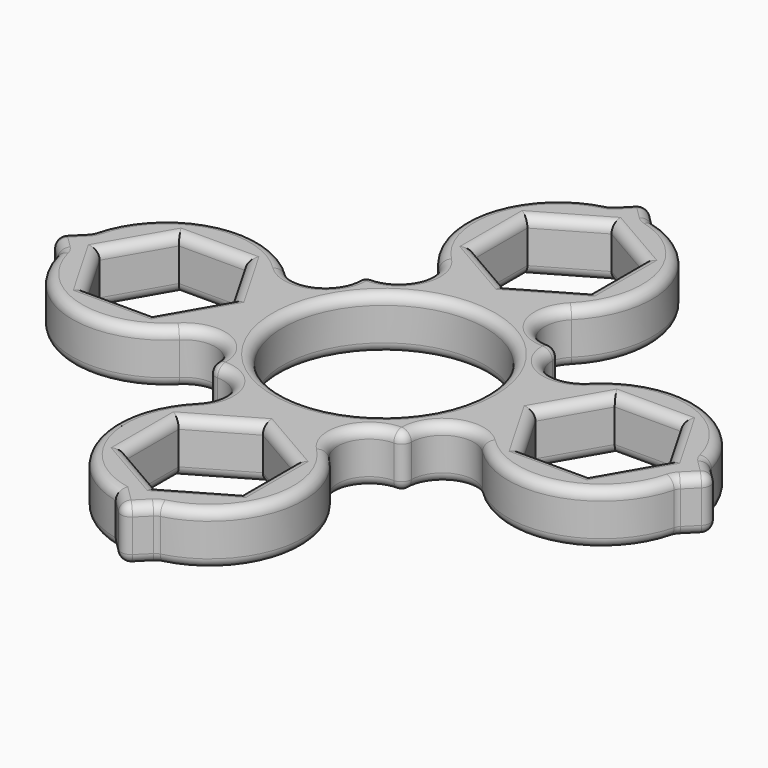
from build123d import *

# Parameters (mm, degrees)
F0_R     = 15.35
F1_DEPTH = 8
F2_R     = 1.5


with BuildPart() as f1:
    # F0 (on Top) → F1 (new body)
    with BuildSketch(Plane.XY):
        with BuildLine():
            Line((3.141748, 46.858252), (0, 50))
            Line((0, 50), (-3.141748, 46.858252))
            ThreePointArc((-3.141748, 46.858252), (-13.651676, 36.94379), (-10.047929, 22.952071))
            ThreePointArc((-10.047929, 22.952071), (-9.42651, 16.980165), (-15.142536, 15.142536))
            ThreePointArc((-15.142536, 15.142536), (-16.980165, 9.42651), (-22.952071, 10.047929))
            ThreePointArc((-22.952071, 10.047929), (-36.94379, 13.651676), (-46.858252, 3.141748))
            Line((-46.858252, 3.141748), (-50, 0))
            Line((-50, 0), (-46.858252, -3.141748))
            ThreePointArc((-46.858252, -3.141748), (-36.94379, -13.651676), (-22.952071, -10.047929))
            ThreePointArc((-22.952071, -10.047929), (-16.980165, -9.42651), (-15.142536, -15.142536))
            ThreePointArc((-15.142536, -15.142536), (-9.42651, -16.980165), (-10.047929, -22.952071))
            ThreePointArc((-10.047929, -22.952071), (-13.651676, -36.94379), (-3.141748, -46.858252))
            Line((-3.141748, -46.858252), (0, -50))
            Line((0, -50), (3.141748, -46.858252))
            ThreePointArc((3.141748, -46.858252), (13.651676, -36.94379), (10.047929, -22.952071))
            ThreePointArc((10.047929, -22.952071), (9.42651, -16.980165), (15.142536, -15.142536))
            ThreePointArc((15.142536, -15.142536), (16.980165, -9.42651), (22.952071, -10.047929))
            ThreePointArc((22.952071, -10.047929), (36.94379, -13.651676), (46.858252, -3.141748))
            Line((46.858252, -3.141748), (50, 0))
            Line((50, 0), (46.858252, 3.141748))
            ThreePointArc((46.858252, 3.141748), (36.94379, 13.651676), (22.952071, 10.047929))
            ThreePointArc((22.952071, 10.047929), (16.980165, 9.42651), (15.142536, 15.142536))
            ThreePointArc((15.142536, 15.142536), (9.42651, 16.980165), (10.047929, 22.952071))
            ThreePointArc((10.047929, 22.952071), (13.651676, 36.94379), (3.141748, 46.858252))
        make_face()
        Polygon((-8.703555, -27.975), (0, -22.95), (8.703555, -27.975), (8.703555, -38.025), (0, -43.05), (-8.703555, -38.025), align=None, mode=Mode.SUBTRACT)
        Polygon((27.975, -8.703555), (22.95, 0), (27.975, 8.703555), (38.025, 8.703555), (43.05, 0), (38.025, -8.703555), align=None, mode=Mode.SUBTRACT)
        Polygon((-27.975, 8.703555), (-22.95, 0), (-27.975, -8.703555), (-38.025, -8.703555), (-43.05, 0), (-38.025, 8.703555), align=None, mode=Mode.SUBTRACT)
        Circle(F0_R, mode=Mode.SUBTRACT)
        Polygon((8.703555, 27.975), (0, 22.95), (-8.703555, 27.975), (-8.703555, 38.025), (0, 43.05), (8.703555, 38.025), align=None, mode=Mode.SUBTRACT)
    extrude(amount=F1_DEPTH)

    # F2
    f2_edges = [f1.edges().sort_by_distance(p)[0] for p in [
        (9.42651, 16.980165, 8),
        (13.651676, 36.94379, 8),
        (1.570874, 48.429126, 8),
        (-1.570874, 48.429126, 8),
        (-13.651676, 36.94379, 8),
        (-9.42651, 16.980165, 8),
        (-16.980165, 9.42651, 8),
        (-36.94379, 13.651676, 8),
        (-48.429126, 1.570874, 8),
        (-48.429126, -1.570874, 8),
        (-36.94379, -13.651676, 8),
        (-16.980165, -9.42651, 8),
        (-9.42651, -16.980165, 8),
        (-13.651676, -36.94379, 8),
        (-1.570874, -48.429126, 8),
        (1.570874, -48.429126, 8),
        (13.651676, -36.94379, 8),
        (9.42651, -16.980165, 8),
        (16.980165, -9.42651, 8),
        (36.94379, -13.651676, 8),
        (48.429126, -1.570874, 8),
        (48.429126, 1.570874, 8),
        (36.94379, 13.651676, 8),
        (16.980165, 9.42651, 8),
        (-4.351778, -25.4625, 8),
        (4.351778, -25.4625, 8),
        (8.703555, -33, 8),
        (4.351778, -40.5375, 8),
        (-4.351778, -40.5375, 8),
        (-8.703555, -33, 8),
        (33, -8.703555, 8),
        (25.4625, -4.351778, 8),
        (25.4625, 4.351778, 8),
        (33, 8.703555, 8),
        (40.5375, 4.351778, 8),
        (40.5375, -4.351778, 8),
        (-25.4625, 4.351778, 8),
        (-25.4625, -4.351778, 8),
        (-33, -8.703555, 8),
        (-40.5375, -4.351778, 8),
        (-40.5375, 4.351778, 8),
        (-33, 8.703555, 8),
        (-15.35, 0, 8),
        (4.351778, 25.4625, 8),
        (-4.351778, 25.4625, 8),
        (-8.703555, 33, 8),
        (-4.351778, 40.5375, 8),
        (4.351778, 40.5375, 8),
        (8.703555, 33, 8),
        (9.42651, 16.980165, 0),
        (13.651676, 36.94379, 0),
        (1.570874, 48.429126, 0),
        (-1.570874, 48.429126, 0),
        (-13.651676, 36.94379, 0),
        (-9.42651, 16.980165, 0),
        (-16.980165, 9.42651, 0),
        (-36.94379, 13.651676, 0),
        (-48.429126, 1.570874, 0),
        (-48.429126, -1.570874, 0),
        (-36.94379, -13.651676, 0),
        (-16.980165, -9.42651, 0),
        (-9.42651, -16.980165, 0),
        (-13.651676, -36.94379, 0),
        (-1.570874, -48.429126, 0),
        (1.570874, -48.429126, 0),
        (13.651676, -36.94379, 0),
        (9.42651, -16.980165, 0),
        (16.980165, -9.42651, 0),
        (36.94379, -13.651676, 0),
        (48.429126, -1.570874, 0),
        (48.429126, 1.570874, 0),
        (36.94379, 13.651676, 0),
        (16.980165, 9.42651, 0),
        (-4.351778, -25.4625, 0),
        (4.351778, -25.4625, 0),
        (8.703555, -33, 0),
        (4.351778, -40.5375, 0),
        (-4.351778, -40.5375, 0),
        (-8.703555, -33, 0),
        (33, -8.703555, 0),
        (25.4625, -4.351778, 0),
        (25.4625, 4.351778, 0),
        (33, 8.703555, 0),
        (40.5375, 4.351778, 0),
        (40.5375, -4.351778, 0),
        (-25.4625, 4.351778, 0),
        (-25.4625, -4.351778, 0),
        (-33, -8.703555, 0),
        (-40.5375, -4.351778, 0),
        (-40.5375, 4.351778, 0),
        (-33, 8.703555, 0),
        (-15.35, 0, 0),
        (4.351778, 25.4625, 0),
        (-4.351778, 25.4625, 0),
        (-8.703555, 33, 0),
        (-4.351778, 40.5375, 0),
        (4.351778, 40.5375, 0),
        (8.703555, 33, 0),
        (3.141748, -46.858252, 4),
        (0, -50, 4),
        (15.142536, -15.142536, 4),
        (-15.142536, -15.142536, 4),
        (-46.858252, -3.141748, 4),
        (-50, 0, 4),
        (-46.858252, 3.141748, 4),
        (-15.142536, 15.142536, 4),
        (0, 50, 4),
        (-3.141748, 46.858252, 4),
        (3.141748, 46.858252, 4),
        (15.142536, 15.142536, 4),
        (46.858252, 3.141748, 4),
        (50, 0, 4),
        (46.858252, -3.141748, 4),
    ]]
    fillet(f2_edges, radius=F2_R)


solid = f1.part
